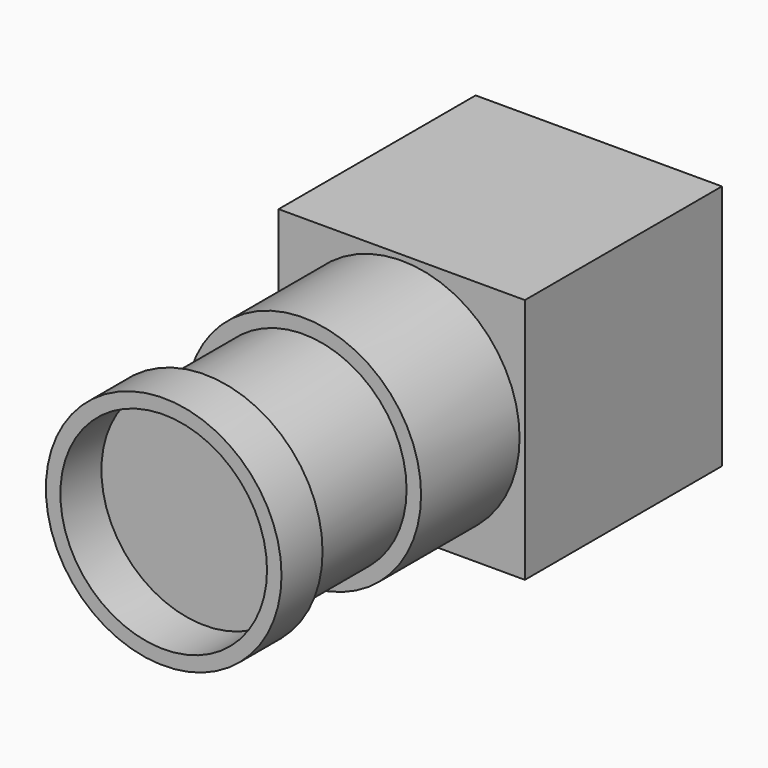
from build123d import *

# Parameters (mm, degrees)
F0_W     = 15.24
F0_H     = 15.24
F1_DEPTH = 15.24
F2_R     = 7.291482
F3_DEPTH = 7.62
F4_R     = 6.393757
F5_DEPTH = 7.62
F6_R     = 7.291482
F6_R_2   = 6.393757
F7_DEPTH = 3.175


with BuildPart() as f1:
    # F0 (on Front) → F1 (new body)
    with BuildSketch(Plane.XZ):
        with Locations((-45.164775, 25.46382)):
            Rectangle(F0_W, F0_H)
    extrude(amount=F1_DEPTH)

    # F2 (on face) → F3 (join)
    with BuildSketch(Plane.XZ.offset(15.24)):
        with Locations((-45.164775, 25.46382)):
            Circle(F2_R)
    extrude(amount=F3_DEPTH)

    # F4 (on face) → F5 (join)
    with BuildSketch(Plane.XZ.offset(22.86)):
        with Locations((-45.164775, 25.46382)):
            Circle(F4_R)
    extrude(amount=F5_DEPTH)


with BuildPart() as f7:
    # F6 (on face) → F7 (new body)
    with BuildSketch(Plane.XZ.offset(30.48)):
        with Locations((-45.164775, 25.46382)):
            Circle(F6_R)
        with Locations((-45.164775, 25.46382)):
            Circle(F6_R_2, mode=Mode.SUBTRACT)
    extrude(amount=F7_DEPTH)


solid = Compound([f1.part, f7.part])
